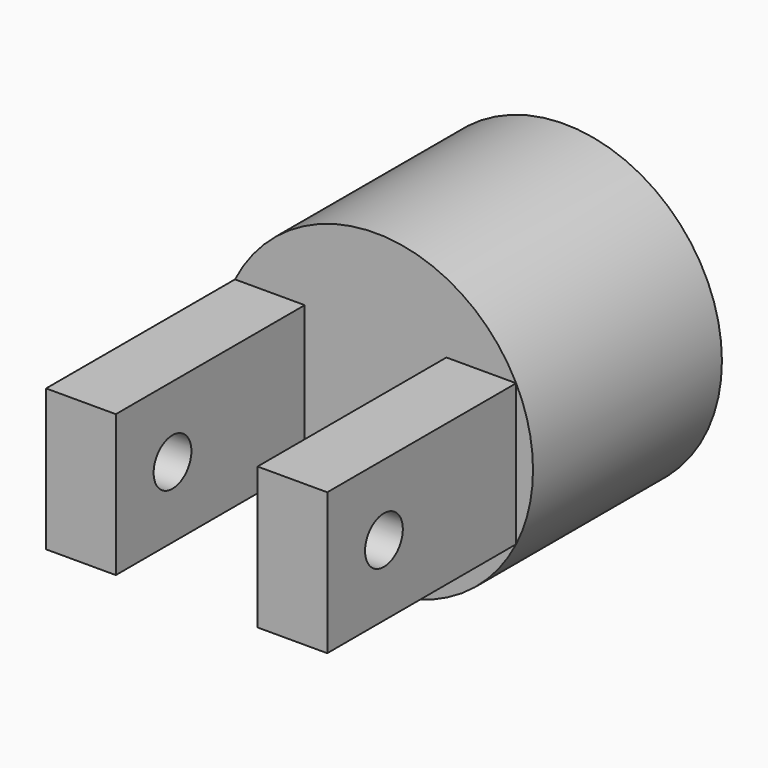
from build123d import *

# Parameters (mm, degrees)
F0_R     = 254
F0_R_2   = 127
F1_DEPTH = 254
F2_R     = 254
F3_DEPTH = 127
F4_W     = 112.5292529635
F4_H     = 228.6
F5_DEPTH = 381
F6_R     = 38.1
F7_DEPTH = 480.8302529635


with BuildPart() as f1:
    # F0 (on Front) → F1 (new body)
    with BuildSketch(Plane.XZ):
        Circle(F0_R)
        Circle(F0_R_2, mode=Mode.SUBTRACT)
    extrude(amount=F1_DEPTH)

    # F2 (on face) → F3 (join)
    with BuildSketch(Plane.XZ.offset(254)):
        Circle(F2_R)
    extrude(amount=F3_DEPTH)

    # F4 (on face) → F5 (join)
    with BuildSketch(Plane.XZ.offset(381)):
        with Locations((-170.5646264818, 0)):
            Rectangle(F4_W, F4_H)
        with Locations((170.5646264818, 0)):
            Rectangle(F4_W, F4_H)
    extrude(amount=F5_DEPTH)

    # F6 (on face) → F7 (cut, through all)
    with BuildSketch(Plane.YZ.offset(226.8292529635)):
        with Locations((-647.7, 0)):
            Circle(F6_R)
    extrude(amount=-F7_DEPTH, mode=Mode.SUBTRACT)


solid = f1.part
